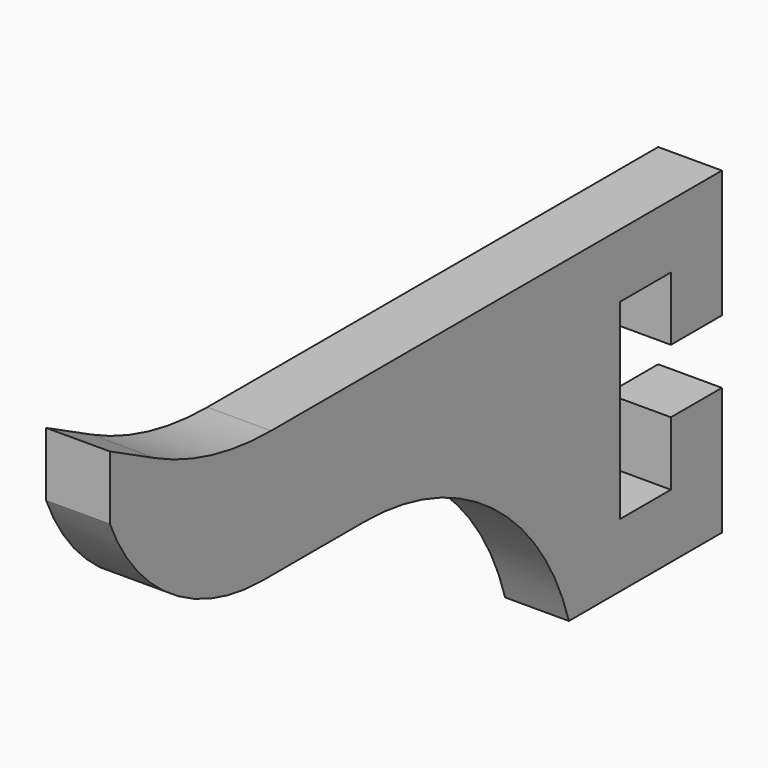
from build123d import *

# Parameters (mm, degrees)
F1_DEPTH = 10


with BuildPart() as f1:
    # F0 (on Right) → F1 (new body)
    with BuildSketch(Plane.YZ):
        with BuildLine():
            Line((-21.091432, 25.457158), (-30, 30))
            Line((-30, 30), (-30, 20))
            ThreePointArc((-30, 20), (-18.027756, 5.458365), (0, 0))
            Line((0, 0), (20, 0))
            ThreePointArc((20, 0), (45, -8.333333), (60, -30))
            Line((60, -30), (70, -30))
            Line((70, -30), (70, -20))
            Line((70, -20), (70, 10))
            Line((70, 10), (70, 20))
            Line((70, 20), (1.622777, 20))
            ThreePointArc((1.622777, 20), (-10.057504, 21.383428), (-21.091432, 25.457158))
        make_face()
        Polygon((90, 20), (70, 20), (70, 10), (80, 10), (80, 0), (90, 0), align=None)
        Polygon((80, -20), (70, -20), (70, -30), (90, -30), (90, -10), (80, -10), align=None)
    extrude(amount=F1_DEPTH)


solid = f1.part
